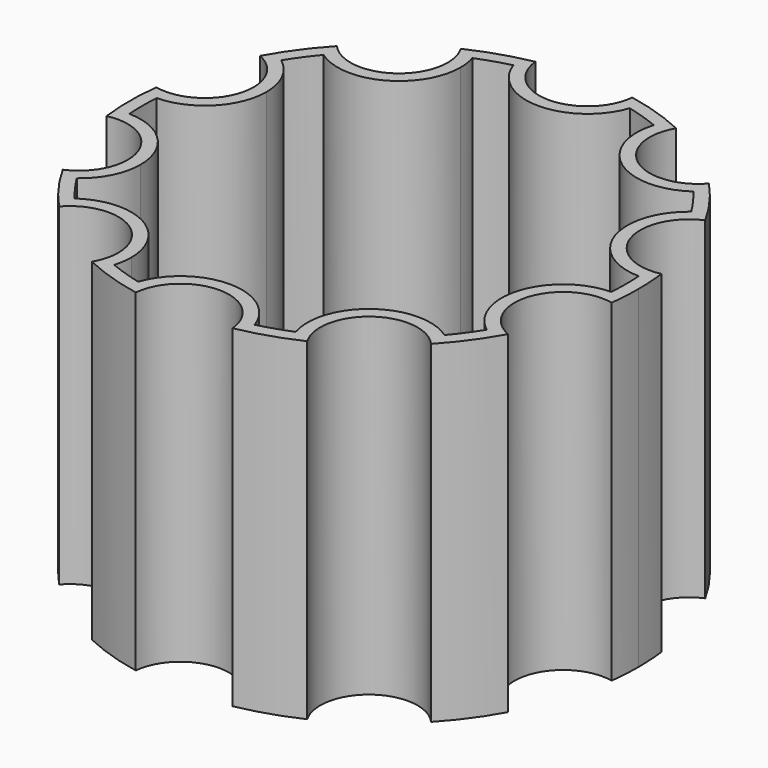
from build123d import *

# Parameters (mm, degrees)
F1_DEPTH = 65.532
F2_T     = -2.54


with BuildPart() as f1:
    # F0 (on Top) → F1 (new body)
    with BuildSketch(Plane.XY):
        with BuildLine():
            ThreePointArc((49.733212, -6.131827), (50.015562, -3.07169), (50.109797, 0))
            ThreePointArc((50.109797, 0), (50.015562, 3.07169), (49.733212, 6.131827))
            ThreePointArc((49.733212, 6.131827), (38.545584, 12.524219), (43.839211, 24.271697))
            ThreePointArc((43.839211, 24.271697), (40.539677, 29.453799), (36.630817, 34.193201))
            ThreePointArc((36.630817, 34.193201), (23.822481, 32.788832), (21.200121, 45.404257))
            ThreePointArc((21.200121, 45.404257), (15.484779, 47.657249), (9.536694, 49.193934))
            ThreePointArc((9.536694, 49.193934), (0, 40.529226), (-9.536694, 49.193934))
            ThreePointArc((-9.536694, 49.193934), (-15.484779, 47.657249), (-21.200121, 45.404257))
            ThreePointArc((-21.200121, 45.404257), (-20.210903, 43.060827), (-19.873228, 40.539677))
            ThreePointArc((-19.873228, 40.539677), (-26.060614, 31.580122), (-36.630817, 34.193201))
            ThreePointArc((-36.630817, 34.193201), (-40.539677, 29.453799), (-43.839211, 24.271697))
            ThreePointArc((-43.839211, 24.271697), (-39.645809, 20.738747), (-38.076678, 15.484779))
            ThreePointArc((-38.076678, 15.484779), (-41.661483, 8.012287), (-49.733212, 6.131827))
            ThreePointArc((-49.733212, 6.131827), (-50.109797, 0), (-49.733212, -6.131827))
            ThreePointArc((-49.733212, -6.131827), (-41.661483, -8.012287), (-38.076678, -15.484779))
            ThreePointArc((-38.076678, -15.484779), (-39.645809, -20.738747), (-43.839211, -24.271697))
            ThreePointArc((-43.839211, -24.271697), (-40.539677, -29.453799), (-36.630817, -34.193201))
            ThreePointArc((-36.630817, -34.193201), (-26.060614, -31.580122), (-19.873228, -40.539677))
            ThreePointArc((-19.873228, -40.539677), (-20.210903, -43.060827), (-21.200121, -45.404257))
            ThreePointArc((-21.200121, -45.404257), (-15.484779, -47.657249), (-9.536694, -49.193934))
            ThreePointArc((-9.536694, -49.193934), (0, -40.529226), (9.536694, -49.193934))
            ThreePointArc((9.536694, -49.193934), (15.484779, -47.657249), (21.200121, -45.404257))
            ThreePointArc((21.200121, -45.404257), (23.822481, -32.788832), (36.630817, -34.193201))
            ThreePointArc((36.630817, -34.193201), (40.539677, -29.453799), (43.839211, -24.271697))
            ThreePointArc((43.839211, -24.271697), (38.545584, -12.524219), (49.733212, -6.131827))
        make_face()
    extrude(amount=F1_DEPTH)

    # F2
    f2_openings = [f1.faces().sort_by_distance(p)[0] for p in [
        (0, 0, 65.532),
    ]]
    offset(amount=F2_T, openings=f2_openings)


solid = f1.part
